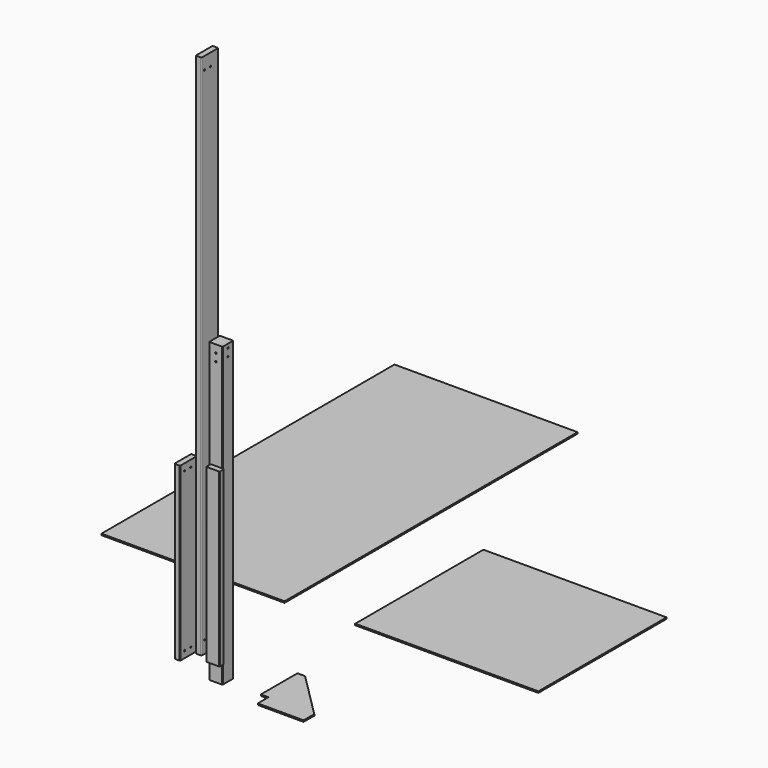
from build123d import *

# Parameters (mm, degrees)
F0_W          = 88.9
F0_H          = 38.1
F1_DEPTH      = 1143
F2_R          = 5.08
F3_W          = 88.9
F3_H          = 88.9
F4_DEPTH      = 1828.8
F4_DEPTH_BACK = 152.4
F5_R          = 5.08
F6_W          = 38.1
F6_H          = 139.7
F7_DEPTH      = 3505.2
F8_R          = 5.08
F9_W          = 38.1
F9_H          = 139.7
F10_DEPTH     = 1143
F11_R         = 5.08
F12_W         = 1219.2
F12_H         = 2438.4
F13_DEPTH     = 9.525
F14_W         = 1219.2
F14_H         = 1066.8
F15_DEPTH     = 9.525
F16_R         = 4.7625
F17_DEPTH     = 88.9
F18_R         = 4.7625
F19_DEPTH     = 88.9
F20_R         = 4.7625
F21_DEPTH     = 38.1
F22_R         = 4.7625
F23_DEPTH     = 38.1
F24_W         = 304.8
F24_H         = 88.9
F24_W_2       = 50.8
F24_H_2       = 304.8
F25_DEPTH     = 9.525


with BuildPart() as f1:
    # F0 (on Top) → F1 (new body)
    with BuildSketch(Plane.XY):
        with Locations((106.336877, -19.05)):
            Rectangle(F0_W, F0_H)
    extrude(amount=F1_DEPTH)

    # F2
    f2_edges = [f1.edges().sort_by_distance(p)[0] for p in [
        (150.786877, -38.1, 571.5),
        (61.886877, -38.1, 571.5),
        (150.786877, 0, 571.5),
        (61.886877, 0, 571.5),
    ]]
    fillet(f2_edges, radius=F2_R)


with BuildPart() as f4:
    # F3 (on Top) → F4 (new body, two sides)
    with BuildSketch(Plane.XY) as f4_sk:
        with Locations((63.063603, 85.341635)):
            Rectangle(F3_W, F3_H)
    extrude(amount=F4_DEPTH)
    extrude(f4_sk.sketch, amount=-F4_DEPTH_BACK)

    # F5
    f5_edges = [f4.edges().sort_by_distance(p)[0] for p in [
        (107.513603, 129.791635, 838.2),
        (18.613603, 129.791635, 838.2),
        (107.513603, 40.891635, 838.2),
        (18.613603, 40.891635, 838.2),
    ]]
    fillet(f5_edges, radius=F5_R)

    # F16 (on face) → F17 (cut, through all)
    with BuildSketch(Plane.YZ.offset(107.513603)):
        with Locations((85.349394, 1803.4)):
            Circle(F16_R)
        with Locations((85.364911, 1752.6)):
            Circle(F16_R)
    extrude(amount=-F17_DEPTH, mode=Mode.SUBTRACT)

    # F18 (on face) → F19 (cut, through all)
    with BuildSketch(Plane.XZ.offset(-40.891635)):
        with Locations((63.063603, 1778)):
            Circle(F18_R)
        with Locations((63.063603, 1727.2)):
            Circle(F18_R)
    extrude(amount=-F19_DEPTH, mode=Mode.SUBTRACT)


with BuildPart() as f7:
    # F6 (on Top) → F7 (new body)
    with BuildSketch(Plane.XY):
        with Locations((-19.05, 69.85)):
            Rectangle(F6_W, F6_H)
    extrude(amount=F7_DEPTH)

    # F8
    f8_edges = [f7.edges().sort_by_distance(p)[0] for p in [
        (-38.1, 0, 1752.6),
        (0, 0, 1752.6),
        (0, 139.7, 1752.6),
        (-38.1, 139.7, 1752.6),
    ]]
    fillet(f8_edges, radius=F8_R)

    # F22 (on face) → F23 (cut, through all)
    with BuildSketch(Plane(origin=(-38.1, 0, 0), x_dir=(0, -1, 0), z_dir=(-1, 0, 0))):
        with Locations((-76.2, 82.55)):
            Circle(F22_R)
        with Locations((-25.4, 82.55)):
            Circle(F22_R)
        with Locations((-25.4, 3422.65)):
            Circle(F22_R)
        with Locations((-76.2, 3422.65)):
            Circle(F22_R)
    extrude(amount=-F23_DEPTH, mode=Mode.SUBTRACT)


with BuildPart() as f10:
    # F9 (on Top) → F10 (new body)
    with BuildSketch(Plane.XY):
        with Locations((-69.848322, -44.598838)):
            Rectangle(F9_W, F9_H)
    extrude(amount=F10_DEPTH)

    # F11
    f11_edges = [f10.edges().sort_by_distance(p)[0] for p in [
        (-88.898322, -114.448838, 571.5),
        (-50.798322, -114.448838, 571.5),
        (-88.898322, 25.251162, 571.5),
        (-50.798322, 25.251162, 571.5),
    ]]
    fillet(f11_edges, radius=F11_R)

    # F20 (on face) → F21 (cut, through all)
    with BuildSketch(Plane(origin=(-88.898322, 0, 0), x_dir=(0, -1, 0), z_dir=(-1, 0, 0))):
        with Locations((25.548838, 1098.55)):
            Circle(F20_R)
        with Locations((76.348838, 1098.55)):
            Circle(F20_R)
        with Locations((25.548838, 44.45)):
            Circle(F20_R)
        with Locations((76.348838, 44.45)):
            Circle(F20_R)
    extrude(amount=-F21_DEPTH, mode=Mode.SUBTRACT)


with BuildPart() as f13:
    # F12 (on Top) → F13 (new body)
    with BuildSketch(Plane.XY):
        with Locations((-643.550232, 1953.480078)):
            Rectangle(F12_W, F12_H)
    extrude(amount=F13_DEPTH)


with BuildPart() as f15:
    # F14 (on Top) → F15 (new body)
    with BuildSketch(Plane.XY):
        with Locations((1020.100817, 1300.089112)):
            Rectangle(F14_W, F14_H)
    extrude(amount=F15_DEPTH)


with BuildPart() as f25:
    # F24 (on Top) → F25 (new body)
    with BuildSketch(Plane.XY):
        with Locations((728.045387, -206.229576)):
            Rectangle(F24_W, F24_H)
        Polygon((880.445387, -161.779576), (575.645387, 143.020424), (575.645387, -161.779576), align=None)
        with Locations((550.245387, -9.379576)):
            Rectangle(F24_W_2, F24_H_2)
    extrude(amount=F25_DEPTH)


solid = Compound([f1.part, f4.part, f7.part, f10.part, f13.part, f15.part, f25.part])
